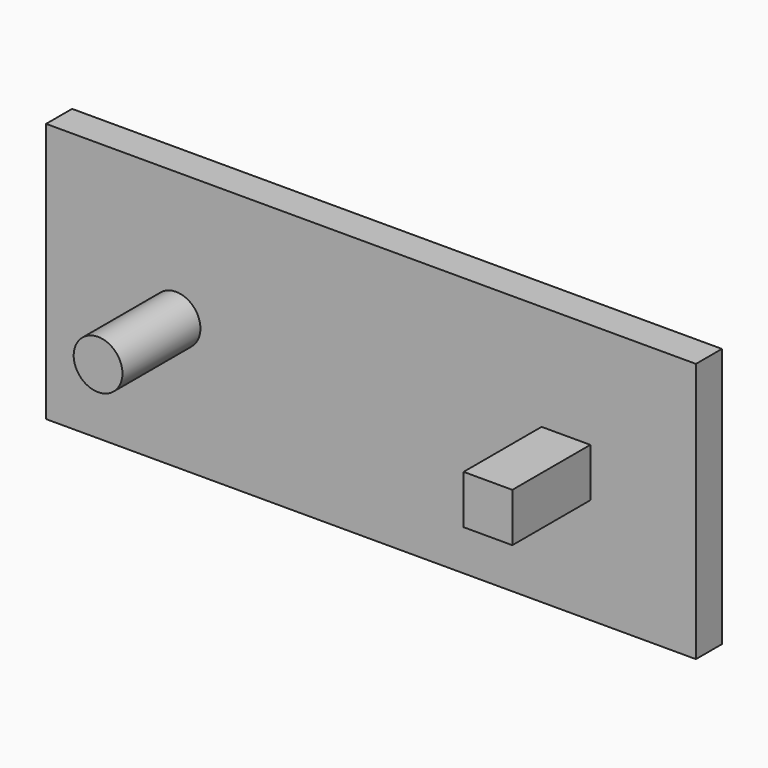
from build123d import *

# Parameters (mm, degrees)
F0_R     = 4.7625
F0_W     = 9.525
F0_H     = 9.525
F0_W_2   = 127
F0_H_2   = 50.8
F1_DEPTH = 6.35
F2_DEPTH = 25.4


with BuildPart() as f1:
    # F0 (on Front) → F1 (new body)
    with BuildSketch(Plane.XZ):
        with Locations((-38.1, 0)):
            Circle(F0_R)
        with Locations((38.1, 0)):
            Rectangle(F0_W, F0_H)
        Rectangle(F0_W_2, F0_H_2)
        with Locations((-38.1, 0)):
            Circle(F0_R, mode=Mode.SUBTRACT)
        with Locations((38.1, 0)):
            Rectangle(F0_W, F0_H, mode=Mode.SUBTRACT)
    extrude(amount=F1_DEPTH)

    # F0 (on Front) → F2 (join)
    with BuildSketch(Plane.XZ):
        with Locations((-38.1, 0)):
            Circle(F0_R)
        with Locations((38.1, 0)):
            Rectangle(F0_W, F0_H)
    extrude(amount=F2_DEPTH)


solid = f1.part
